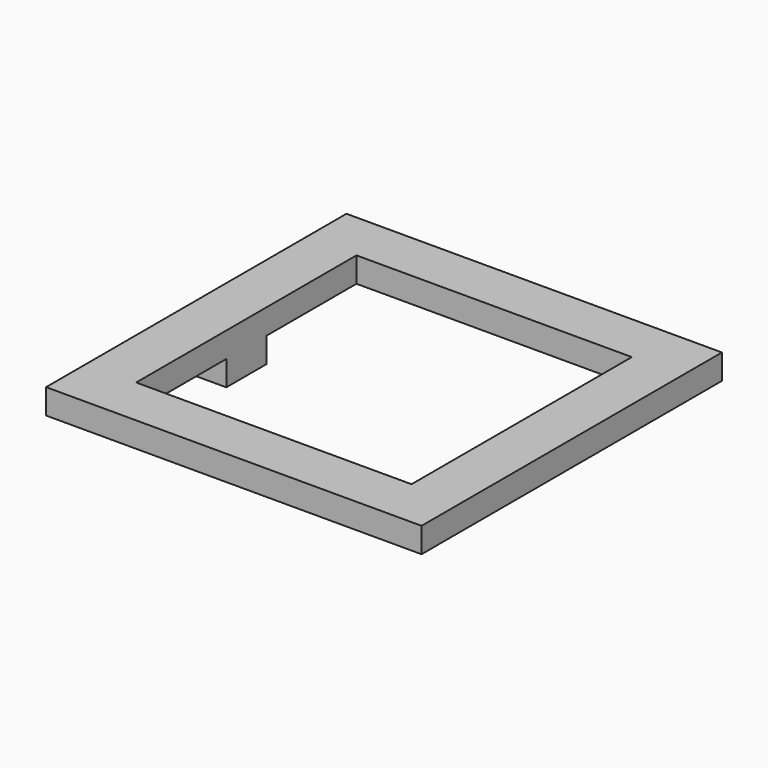
from build123d import *

# Parameters (mm, degrees)
SKETCH_W     = 150
SKETCH_H     = 150
SKETCH_W_2   = 110
SKETCH_H_2   = 110
PAD_DEPTH    = 10
SKETCH003_W  = 20
SKETCH003_H  = 20
PAD001_DEPTH = 10


with BuildPart() as part:
    # Sketch → Pad (new body)
    with BuildSketch(Plane.XY):
        Rectangle(SKETCH_W, SKETCH_H)
        Rectangle(SKETCH_W_2, SKETCH_H_2, mode=Mode.SUBTRACT)
    extrude(amount=PAD_DEPTH)

    # Sketch003 → Pad001 (new body)
    with BuildSketch(Plane(origin=(0, 0, 0), x_dir=(1, 0, 0), z_dir=(0, 0, -1))):
        with Locations((-65, 0)):
            Rectangle(SKETCH003_W, SKETCH003_H)
    extrude(amount=PAD001_DEPTH)


solid = part.part
